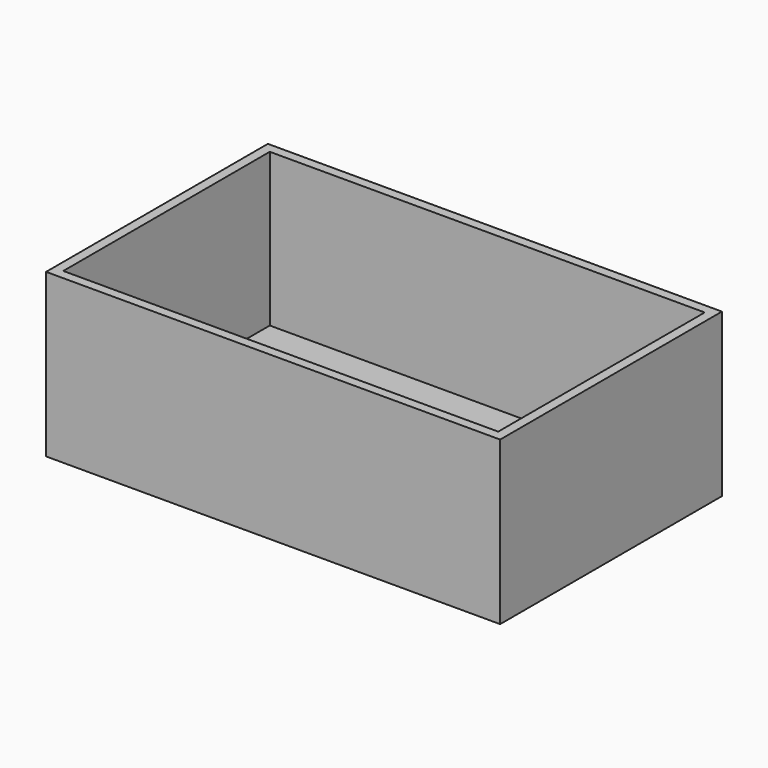
from build123d import *

# Parameters (mm, degrees)
F0_W     = 45.5
F0_H     = 27
F1_DEPTH = 1
F0_W_2   = 47.5
F0_H_2   = 29
F2_DEPTH = 17
F3_W     = 7
F3_H     = 8
F4_DEPTH = 17.001


with BuildPart() as f1:
    # F0 (on Top) → F1 (new body)
    with BuildSketch(Plane.XY):
        with Locations((-2.069812, 0.198113)):
            Rectangle(F0_W, F0_H)
    extrude(amount=F1_DEPTH)

    # F0 (on Top) → F2 (join)
    with BuildSketch(Plane.XY):
        with Locations((-2.069812, 0.198113)):
            Rectangle(F0_W_2, F0_H_2)
        with Locations((-2.069812, 0.198113)):
            Rectangle(F0_W, F0_H, mode=Mode.SUBTRACT)
    extrude(amount=F2_DEPTH)

    # F3 (on face) → F4 (cut, through all)
    with BuildSketch(Plane.XY):
        with Locations((-18.319812, -3.301887)):
            Rectangle(F3_W, F3_H)
    extrude(amount=F4_DEPTH, mode=Mode.SUBTRACT)


solid = f1.part
